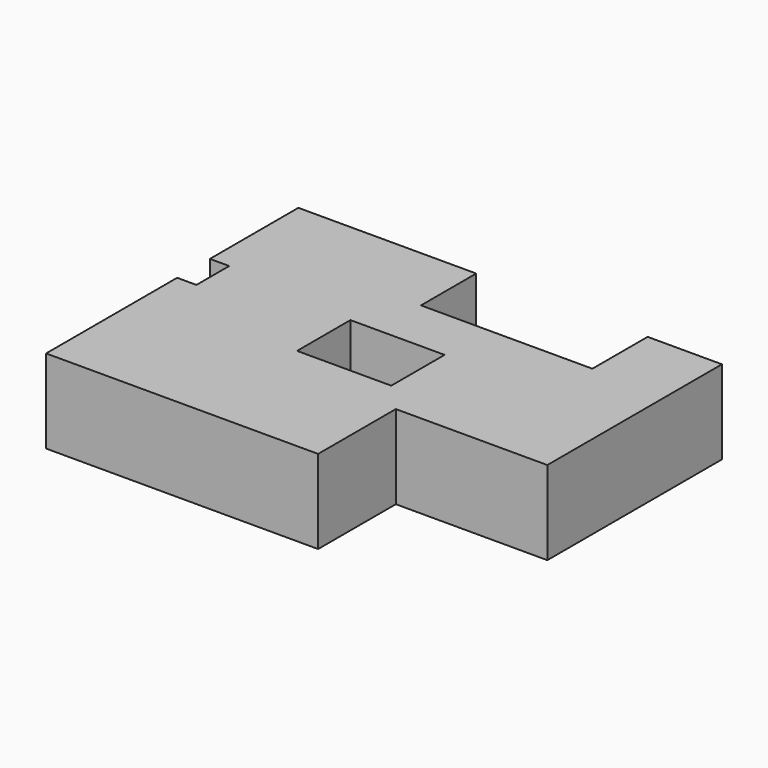
from build123d import *

# Parameters (mm, degrees)
F0_W     = 28.562329
F0_H     = 20.224257
F1_DEPTH = 25.4


with BuildPart() as f1:
    # F0 (on Top) → F1 (new body)
    with BuildSketch(Plane.XY):
        Polygon((-7.273636, 45.948092), (-61.204992, 45.948092), (-61.204992, 12.418404), (-55.350598, 12.418404), (-55.350598, 0), (-61.204992, 0), (-61.204992, -49.673617), (21.288693, -49.673617), (21.288693, -20.224256), (67.236781, -20.224256), (67.236781, 45.948092), (44.706255, 45.948092), (44.706255, 25.014212), (-7.273636, 25.014212), align=None)
        with Locations((-1.330542, -1.419245)):
            Rectangle(F0_W, F0_H, mode=Mode.SUBTRACT)
    extrude(amount=F1_DEPTH)


solid = f1.part
